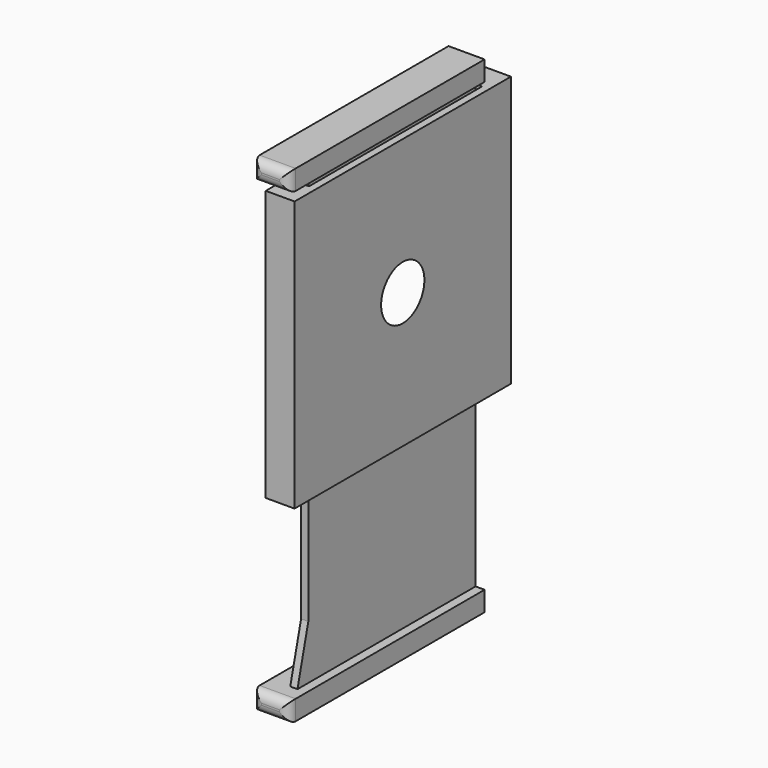
from build123d import *

# Parameters (mm, degrees)
F0_W          = 1.6
F0_H          = 3
F1_DEPTH      = 15
F2_W          = 0.8
F2_H          = 23.2
F3_DEPTH      = 50
F3_DEPTH_BACK = 2
F4_R          = 3
F5_DEPTH      = 25
F5_TAPER      = -70
F6_W          = 27.2
F6_H          = 1.2
F6_H_2        = 1
F7_DEPTH      = 1
F7_DEPTH_BACK = 3
F8_R          = 1
F9_SIZE2      = 6
F9_SIZE       = 1.5
F10_SIZE2     = 6
F10_SIZE      = 1.4


with BuildPart() as f1:
    # F0 (on Top) → F1 (new body, symmetric)
    with BuildSketch(Plane.XY):
        Polygon((0.8, 15), (0, 15), (0, -15), (0.8, -15), (0.8, -12), (0.8, 12), align=None)
        with Locations((1.6, 13.5)):
            Rectangle(F0_W, F0_H)
        Polygon((3.2, 15), (2.4, 15), (2.4, 12), (2.4, -12), (2.4, -15), (3.2, -15), align=None)
        with Locations((1.6, -13.5)):
            Rectangle(F0_W, F0_H)
        Polygon((0.8, 15), (0, 15), (0, -15), (0.8, -15), (0.8, -12), (0.8, 12), align=None)
    extrude(amount=F1_DEPTH, both=True)


with BuildPart() as f3:
    # F2 (on face) → F3 (new body, two sides)
    with BuildSketch(Plane.XY.offset(15)) as f3_sk:
        with Locations((1.6, 0)):
            Rectangle(F2_W, F2_H)
    extrude(amount=-F3_DEPTH)
    extrude(f3_sk.sketch, amount=F3_DEPTH_BACK)


with BuildPart() as f5_tool:
    # F4 (on face) → F5 (new body)
    with BuildSketch(Plane.YZ.offset(3.2)):
        Circle(F4_R)
    extrude(amount=-F5_DEPTH, taper=F5_TAPER)


with BuildPart() as f1_1:
    add(f1.part)

    # F5: cut by f5_tool
    add(f5_tool.part, mode=Mode.SUBTRACT)

    # F10
    f10_edges = [f1_1.edges().sort_by_distance(p)[0] for p in [
        (1.6, -12, -15),
    ]]
    f10_side = f1_1.faces().sort_by_distance((0.301702, 0, -15))[0]
    chamfer(f10_edges, length=F10_SIZE, length2=F10_SIZE2, reference=f10_side)


with BuildPart() as f3_1:
    add(f3.part)

    # F5: cut by f5_tool
    add(f5_tool.part, mode=Mode.SUBTRACT)

    # F6 (on face) → F7 (join, two sides)
    with BuildSketch(Plane.YZ.offset(2)) as f7_sk:
        with Locations((-2, 16.4)):
            Rectangle(F6_W, F6_H)
        with Locations((-2, 17.5)):
            Rectangle(F6_W, F6_H_2)
        with Locations((-2, -35.5)):
            Rectangle(F6_W, F6_H_2)
        with Locations((-2, -34.4)):
            Rectangle(F6_W, F6_H)
    extrude(amount=F7_DEPTH)
    extrude(f7_sk.sketch, amount=-F7_DEPTH_BACK)

    # F8
    f8_edges = [f3_1.edges().sort_by_distance(p)[0] for p in [
        (3, -15.6, -34.9),
        (1, -15.6, -36),
        (-1, -15.6, -34.9),
        (1, -15.6, -33.8),
        (3, -15.6, 16.9),
        (1, -15.6, 15.8),
        (-1, -15.6, 16.9),
        (1, -15.6, 18),
    ]]
    fillet(f8_edges, radius=F8_R)

    # F9
    f9_edges = [f3_1.edges().sort_by_distance(p)[0] for p in [
        (1.6, -11.6, -33.8),
    ]]
    f9_side = f3_1.faces().sort_by_distance((0.870872, -1.82282, -33.8))[0]
    chamfer(f9_edges, length=F9_SIZE, length2=F9_SIZE2, reference=f9_side)


solid = Compound([f1_1.part, f3_1.part])
